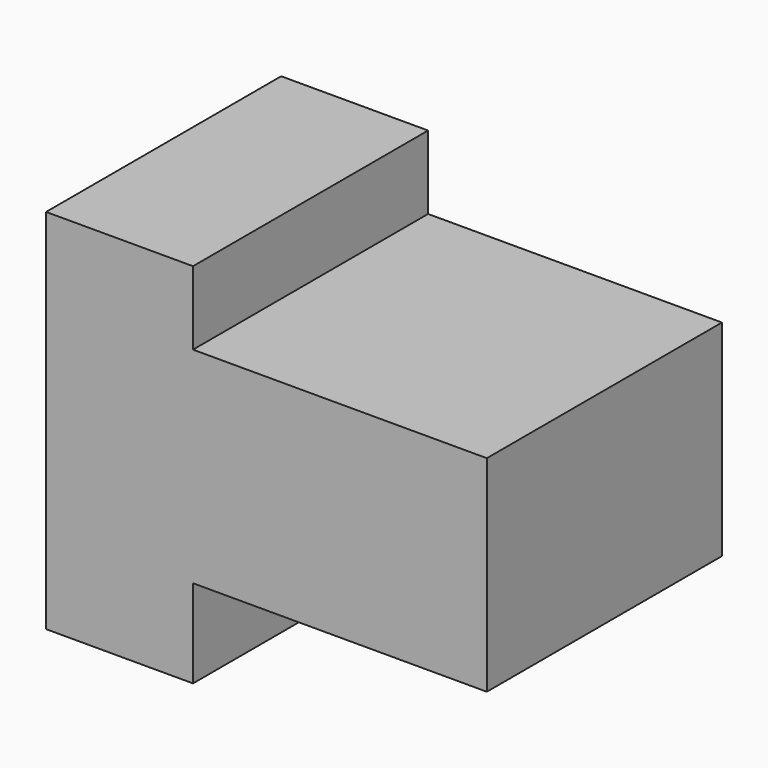
from build123d import *

# Parameters (mm, degrees)
F0_W     = 38.1
F0_H     = 31.75
F1_DEPTH = 25.4
F2_W     = 25.4
F2_H     = 6.35
F2_H_2   = 7.625042
F3_DEPTH = 25.401


with BuildPart() as f1:
    # F0 (on Front) → F1 (new body)
    with BuildSketch(Plane.XZ):
        with Locations((19.05, 15.875)):
            Rectangle(F0_W, F0_H)
    extrude(amount=F1_DEPTH)

    # F2 (on face) → F3 (cut, through all)
    with BuildSketch(Plane.XZ.offset(25.4)):
        with Locations((25.4, 28.575)):
            Rectangle(F2_W, F2_H)
        with Locations((25.4, 3.812521)):
            Rectangle(F2_W, F2_H_2)
    extrude(amount=-F3_DEPTH, mode=Mode.SUBTRACT)


solid = f1.part
